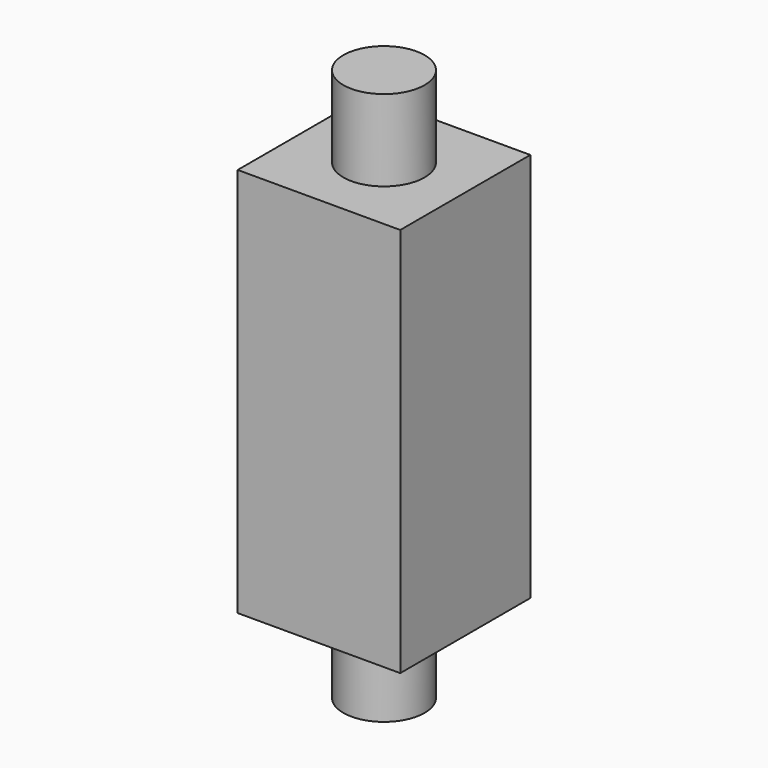
from build123d import *

# Parameters (mm, degrees)
F0_W     = 5
F0_H     = 5
F1_DEPTH = 6
F2_R     = 1.25
F3_DEPTH = 2.5


with BuildPart() as f1:
    # F0 (on Top) → F1 (new body, symmetric)
    with BuildSketch(Plane.XY):
        Rectangle(F0_W, F0_H)
    extrude(amount=F1_DEPTH, both=True)

    # F2 (on face) → F3 (join)
    with BuildSketch(Plane.XY.offset(6)):
        Circle(F2_R)
    extrude(amount=F3_DEPTH)

    # F4: F1 across plane


with BuildPart() as f1_1:
    add(f1.part)
    add(f1.part.mirror(Plane.XY))


solid = f1_1.part
